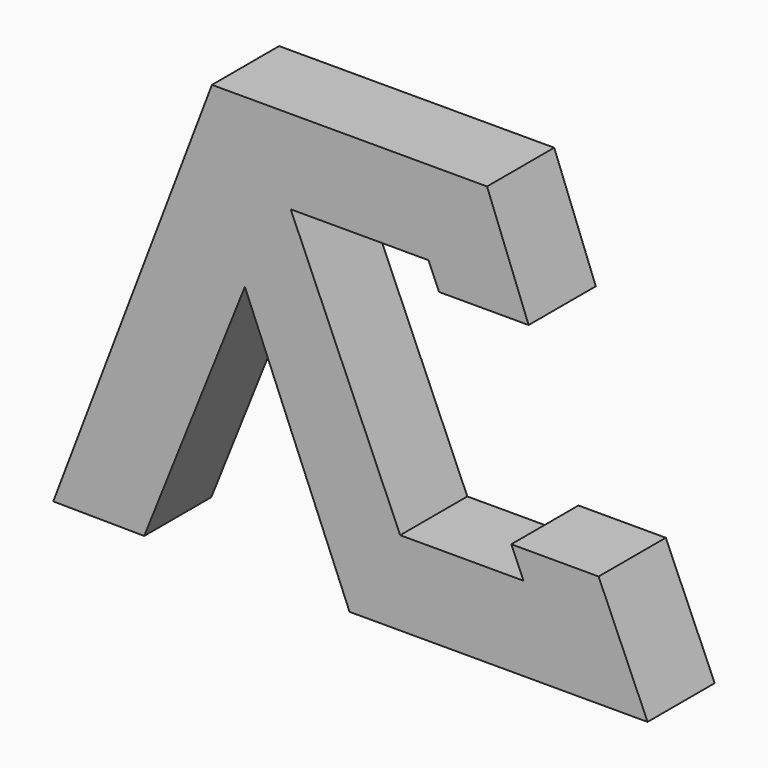
from build123d import *

# Parameters (mm, degrees)
F1_DEPTH = 12.7


with BuildPart() as f1:
    # F0 (on Front) → F1 (new body, symmetric)
    with BuildSketch(Plane.XZ):
        Polygon((-41.637809, 68.136583), (-89.650807, -58.443111), (-62.147316, -58.70938), (-31.672317, 17.590671), (0, -58.70938), (90.179723, -58.70938), (75.366612, -24.786401), (48.944038, -24.786401), (52.657543, -33.30938), (15.323475, -33.30938), (-17.810837, 42.736583), (23.85487, 42.736583), (27.09148, 35.308142), (54.189362, 35.308142), (41.60433, 68.136583), align=None)
    extrude(amount=F1_DEPTH, both=True)


solid = f1.part
